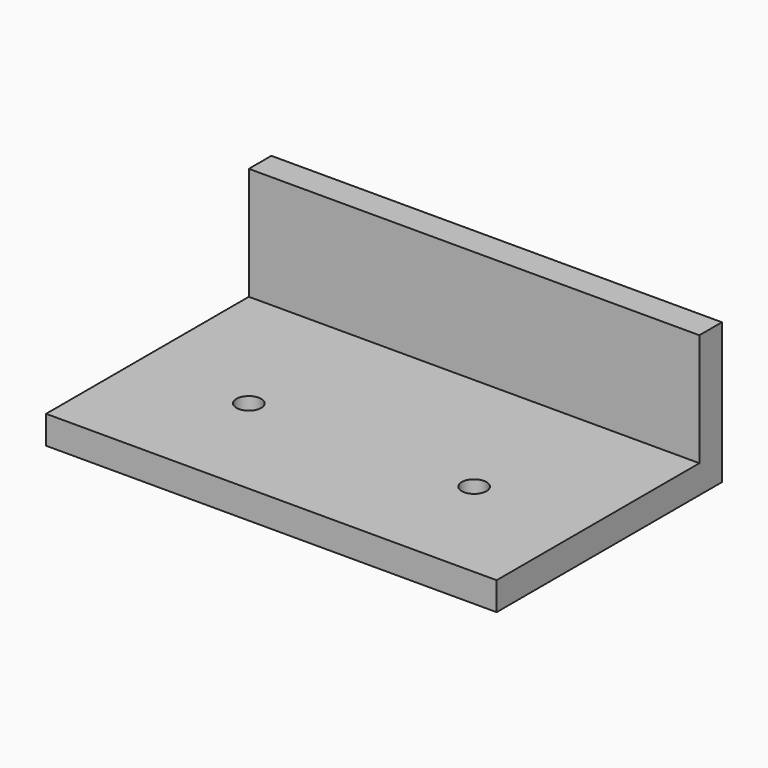
from build123d import *

# Parameters (mm, degrees)
F0_W     = 80
F0_H     = 50
F1_DEPTH = 5
F2_W     = 80
F2_H     = 5
F3_DEPTH = 20
F5_D     = 4.4


with BuildPart() as f1:
    # F0 (on Top) → F1 (new body)
    with BuildSketch(Plane.XY):
        Rectangle(F0_W, F0_H)
    extrude(amount=F1_DEPTH)

    # F2 (on face) → F3 (join)
    with BuildSketch(Plane.XY.offset(5)):
        with Locations((0, 22.5)):
            Rectangle(F2_W, F2_H)
    extrude(amount=F3_DEPTH)

    # F5 (through all)
    with Locations(Plane.XY.offset(5)):
        with Locations((-20, -5), (20, -5)):
            Hole(F5_D / 2)


solid = f1.part
